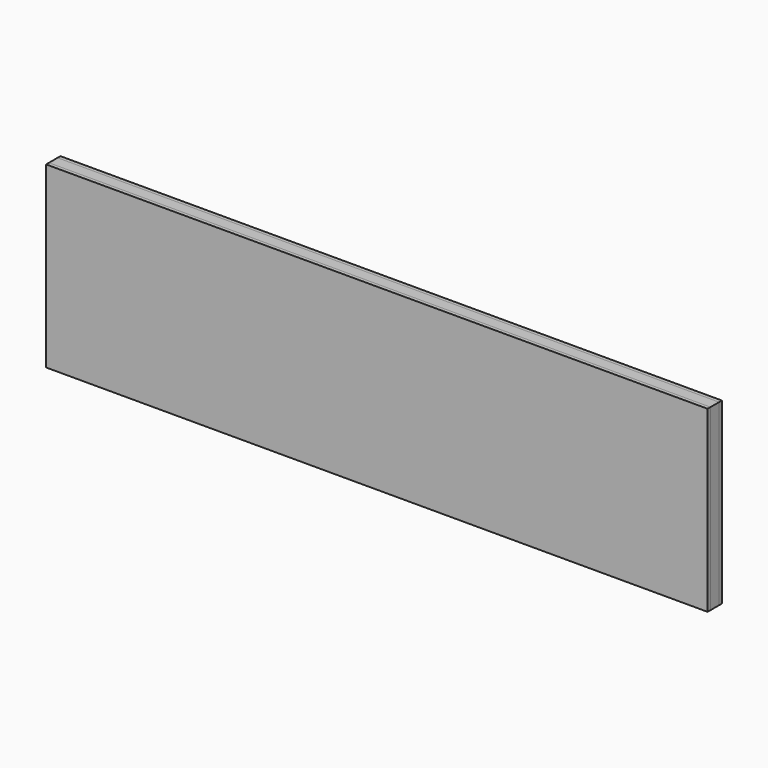
from build123d import *

# Parameters (mm, degrees)
F0_W     = 1850
F0_H     = 30
F1_DEPTH = 250
F2_W     = 1850
F2_H     = 500
F3_DEPTH = 10
F4_W     = 1850
F4_H     = 500
F5_DEPTH = 10


with BuildPart() as f1:
    # F0 (on Top) → F1 (new body, symmetric)
    with BuildSketch(Plane.XY):
        Rectangle(F0_W, F0_H)
    extrude(amount=F1_DEPTH, both=True)


with BuildPart() as f3:
    # F2 (on face) → F3 (new body)
    with BuildSketch(Plane(origin=(0, 15, 0), x_dir=(-1, 0, 0), z_dir=(0, 1, 0))):
        Rectangle(F2_W, F2_H)
    extrude(amount=F3_DEPTH)


with BuildPart() as f5:
    # F4 (on face) → F5 (new body)
    with BuildSketch(Plane.XZ.offset(15)):
        Rectangle(F4_W, F4_H)
    extrude(amount=F5_DEPTH)


solid = Compound([f1.part, f3.part, f5.part])
